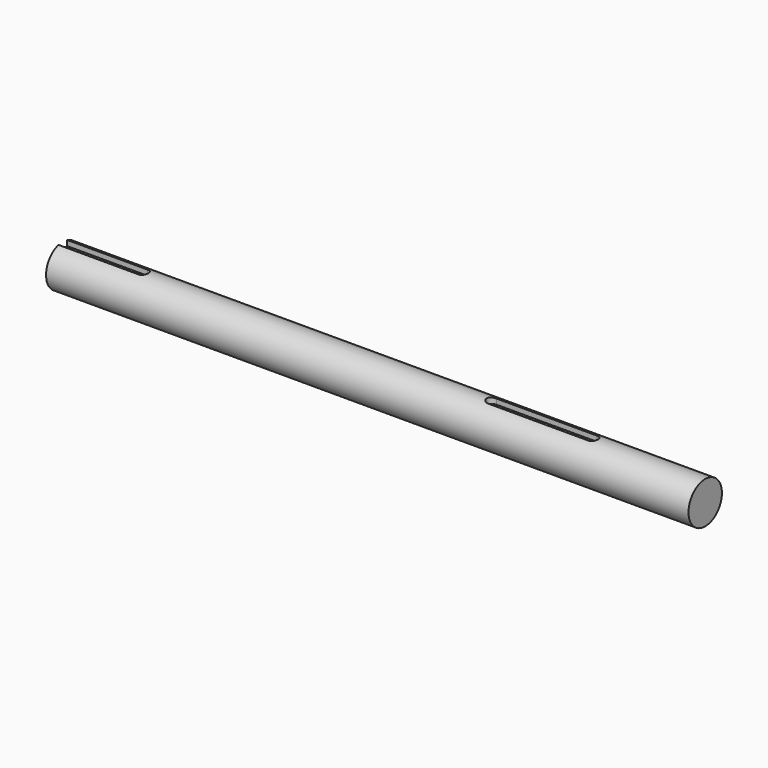
from build123d import *

# Parameters (mm, degrees)
F0_R     = 30.95625
F1_DEPTH = 952.5
F6_DEPTH = 9.9724281426


with BuildPart() as f1:
    # F0 (on Right) → F1 (new body)
    with BuildSketch(Plane.YZ):
        Circle(F0_R)
    extrude(amount=F1_DEPTH)

    # F5 (on plane+point) → F6 (cut, up to face)
    with BuildSketch(Plane.XY.offset(21.9838219596)):
        with BuildLine():
            Line((0, 7.9375), (0, 0))
            Line((0, 0), (0, -7.9375))
            Line((0, -7.9375), (119.0625, -7.9375))
            ThreePointArc((119.0625, -7.9375), (111.125, 0), (119.0625, 7.9375))
            Line((119.0625, 7.9375), (0, 7.9375))
        make_face()
        with BuildLine():
            ThreePointArc((119.0625, 7.9375), (111.125, 0), (119.0625, -7.9375))
            ThreePointArc((119.0625, -7.9375), (124.6751600757, -5.6126600757), (127, 0))
            ThreePointArc((127, 0), (124.6751600757, 5.6126600757), (119.0625, 7.9375))
        make_face()
        with BuildLine():
            ThreePointArc((636.5875, -7.9375), (642.2001600757, -5.6126600757), (644.525, 0))
            ThreePointArc((644.525, 0), (642.2001600757, 5.6126600757), (636.5875, 7.9375))
            ThreePointArc((636.5875, 7.9375), (628.65, 0), (636.5875, -7.9375))
        make_face()
        with BuildLine():
            ThreePointArc((636.5875, 7.9375), (642.2001600757, 5.6126600757), (644.525, 0))
            ThreePointArc((644.525, 0), (642.2001600757, -5.6126600757), (636.5875, -7.9375))
            Line((636.5875, -7.9375), (785.8125, -7.9375))
            ThreePointArc((785.8125, -7.9375), (777.875, 0), (785.8125, 7.9375))
            Line((785.8125, 7.9375), (636.5875, 7.9375))
        make_face()
        with BuildLine():
            ThreePointArc((793.75, 0), (791.4251600757, 5.6126600757), (785.8125, 7.9375))
            ThreePointArc((785.8125, 7.9375), (777.875, 0), (785.8125, -7.9375))
            ThreePointArc((785.8125, -7.9375), (791.4251600757, -5.6126600757), (793.75, 0))
        make_face()
    extrude(amount=F6_DEPTH, mode=Mode.SUBTRACT)


solid = f1.part
